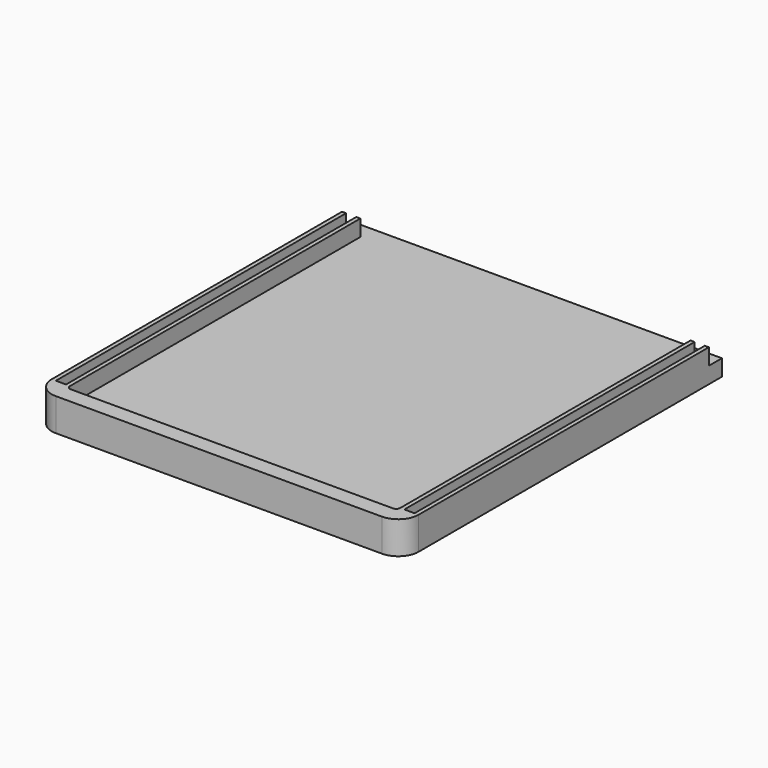
from build123d import *

# Parameters (mm, degrees)
EXTRUDE_DEPTH   = 4
PAD_DEPTH       = 8
POCKET_START    = 4
SKETCH001_W     = 90
SKETCH001_H     = 4
POCKET_DEPTH    = 4
POCKET001_START = -5
SKETCH002_W     = 3.5
SKETCH002_H     = 1
SKETCH002_W_2   = 2.5
SKETCH002_H_2   = 3
SKETCH002_H_3   = 1.25
POCKET001_DEPTH = 89


with BuildPart() as part:
    # Face001 → Extrude (new body)
    with BuildSketch(Plane(origin=(44.07068, 49.485801, 0), x_dir=(0, 1, 0), z_dir=(0, 0, 1))):
        with BuildLine():
            add(Edge.make_bspline(
                [(-12.189347, 20.903638), (-8.616149, 10.816398)],
                knots=[0, 0, 8.089254, 8.089254], degree=1))
            add(Edge.make_bspline(
                [(-8.616149, 10.816398), (-9.34243, 10.514773)],
                knots=[0, 0, 0.594462, 0.594462], degree=1))
            add(Edge.make_bspline(
                [(-9.34243, 10.514773), (-9.595107, 10.410263), (-9.751211, 10.165523), (-9.751211, 9.903586)],
                knots=[0, 0, 0, 0, 1, 1, 1, 1], degree=3))
            add(Edge.make_bspline(
                [(-9.751211, 9.903586), (-9.751211, 9.842732), (-9.743274, 9.781877), (-9.724753, 9.7197)],
                knots=[0, 0, 0, 0, 1, 1, 1, 1], degree=3))
            add(Edge.make_bspline(
                [(-9.724753, 9.7197), (-6.950597, 0.094159)],
                knots=[0, 0, 7.572159, 7.572159], degree=1))
            add(Edge.make_bspline(
                [(-6.950597, 0.094159), (-7.703336, -0.194237)],
                knots=[0, 0, 0.609332, 0.609332], degree=1))
            add(Edge.make_bspline(
                [(-7.703336, -0.194237), (-7.963951, -0.292133), (-8.127992, -0.542164), (-8.127992, -0.809393)],
                knots=[0, 0, 0, 0, 1, 1, 1, 1], degree=3))
            add(Edge.make_bspline(
                [(-8.127992, -0.809393), (-8.127992, -0.874216), (-8.118732, -0.939039), (-8.098888, -1.003862)],
                knots=[0, 0, 0, 0, 1, 1, 1, 1], degree=3))
            add(Edge.make_bspline(
                [(-8.098888, -1.003862), (-2.807222, -18.201779)],
                knots=[0, 0, 13.601471, 13.601471], degree=1))
            add(Edge.make_bspline(
                [(-2.807222, -18.201779), (-2.752982, -18.37905), (-2.627305, -18.524571), (-2.460617, -18.603946)],
                knots=[0, 0, 0, 0, 1, 1, 1, 1], degree=3))
            add(Edge.make_bspline(
                [(-2.460617, -18.603946), (-2.29393, -18.683321), (-2.100784, -18.689935), (-1.930128, -18.621143)],
                knots=[0, 0, 0, 0, 1, 1, 1, 1], degree=3))
            add(Edge.make_bspline(
                [(-1.930128, -18.621143), (14.607653, -12.00656)],
                knots=[0, 0, 13.46384, 13.46384], degree=1))
            add(Edge.make_bspline(
                [(14.607653, -12.00656), (14.782278, -11.936446), (14.918539, -11.796216), (14.983362, -11.620268)],
                knots=[0, 0, 0, 0, 1, 1, 1, 1], degree=3))
            add(Edge.make_bspline(
                [(14.983362, -11.620268), (15.046862, -11.444321), (15.034956, -11.248529), (14.947643, -11.083164)],
                knots=[0, 0, 0, 0, 1, 1, 1, 1], degree=3))
            add(Edge.make_bspline(
                [(14.947643, -11.083164), (6.637081, 4.667482)],
                knots=[0, 0, 13.461663, 13.461663], degree=1))
            add(Edge.make_bspline(
                [(6.637081, 4.667482), (6.480976, 4.963815), (6.127758, 5.096107), (5.815549, 4.975721)],
                knots=[0, 0, 0, 0, 1, 1, 1, 1], degree=3))
            add(Edge.make_bspline(
                [(5.815549, 4.975721), (4.96756, 4.651607)],
                knots=[0, 0, 0.686226, 0.686226], degree=1))
            add(Edge.make_bspline(
                [(4.96756, 4.651607), (-0.018513, 13.744013)],
                knots=[0, 0, 7.83859, 7.83859], degree=1))
            add(Edge.make_bspline(
                [(-0.018513, 13.744013), (-0.181232, 14.041669), (-0.541065, 14.167346), (-0.851951, 14.0377)],
                knots=[0, 0, 0, 0, 1, 1, 1, 1], degree=3))
            add(Edge.make_bspline(
                [(-0.851951, 14.0377), (-1.578232, 13.736075)],
                knots=[0, 0, 0.594462, 0.594462], degree=1))
            add(Edge.make_bspline(
                [(-1.578232, 13.736075), (-6.192565, 23.392044)],
                knots=[0, 0, 8.089595, 8.089595], degree=1))
            add(Edge.make_bspline(
                [(-6.192565, 23.392044), (-6.344701, 23.709544), (-6.717763, 23.852419), (-7.043201, 23.717482)],
                knots=[0, 0, 0, 0, 1, 1, 1, 1], degree=3))
            add(Edge.make_bspline(
                [(-7.043201, 23.717482), (-11.81893, 21.735752)],
                knots=[0, 0, 3.908466, 3.908466], degree=1))
            add(Edge.make_bspline(
                [(-11.81893, 21.735752), (-12.07293, 21.629919), (-12.227711, 21.385179), (-12.227711, 21.124565)],
                knots=[0, 0, 0, 0, 1, 1, 1, 1], degree=3))
            add(Edge.make_bspline(
                [(-12.227711, 21.124565), (-12.227711, 21.050482), (-12.215805, 20.976398), (-12.189347, 20.903638)],
                knots=[0, 0, 0, 0, 1, 1, 1, 1], degree=3))
        make_face()
        with BuildLine():
            add(Edge.make_bspline(
                [(-24.664451, 2.497898), (-24.664451, 2.132773), (-24.368117, 1.83644), (-24.002992, 1.83644)],
                knots=[0, 0, 0, 0, 1, 1, 1, 1], degree=3))
            add(Edge.make_bspline(
                [(-24.002992, 1.83644), (-15.404034, 1.83644)],
                knots=[0, 0, 6.5, 6.5], degree=1))
            add(Edge.make_bspline(
                [(-15.404034, 1.83644), (-15.404034, -1.166581)],
                knots=[0, 0, 2.27, 2.27], degree=1))
            add(Edge.make_bspline(
                [(-15.404034, -1.166581), (-24.43294, -8.905643)],
                knots=[0, 0, 8.989056, 8.989056], degree=1))
            add(Edge.make_bspline(
                [(-24.43294, -8.905643), (-24.586399, -9.036612), (-24.664451, -9.221821), (-24.664451, -9.408352)],
                knots=[0, 0, 0, 0, 1, 1, 1, 1], degree=3))
            add(Edge.make_bspline(
                [(-24.664451, -9.408352), (-24.664451, -9.560487), (-24.611534, -9.713946), (-24.504378, -9.8383)],
                knots=[0, 0, 0, 0, 1, 1, 1, 1], degree=3))
            add(Edge.make_bspline(
                [(-24.504378, -9.8383), (-24.266253, -10.116112), (-23.849534, -10.147862), (-23.571722, -9.909737)],
                knots=[0, 0, 0, 0, 1, 1, 1, 1], degree=3))
            add(Edge.make_bspline(
                [(-23.571722, -9.909737), (-14.497836, -2.13231)],
                knots=[0, 0, 9.033744, 9.033744], degree=1))
            add(Edge.make_bspline(
                [(-14.497836, -2.13231), (-12.857419, -2.13231)],
                knots=[0, 0, 1.24, 1.24], degree=1))
            add(Edge.make_bspline(
                [(-12.857419, -2.13231), (-11.318867, -2.13231), (-10.112367, -0.970789), (-10.112367, 0.513523)],
                knots=[0, 0, 0, 0, 1, 1, 1, 1], degree=3))
            add(Edge.make_bspline(
                [(-10.112367, 0.513523), (-10.112367, 4.482273)],
                knots=[0, 0, 3, 3], degree=1))
            add(Edge.make_bspline(
                [(-10.112367, 4.482273), (-10.112367, 5.990398), (-11.250076, 7.128107), (-12.758201, 7.128107)],
                knots=[0, 0, 0, 0, 1, 1, 1, 1], degree=3))
            add(Edge.make_bspline(
                [(-12.758201, 7.128107), (-14.497836, 7.128107)],
                knots=[0, 0, 1.315, 1.315], degree=1))
            add(Edge.make_bspline(
                [(-14.497836, 7.128107), (-23.571722, 14.905534)],
                knots=[0, 0, 9.033744, 9.033744], degree=1))
            add(Edge.make_bspline(
                [(-23.571722, 14.905534), (-23.848211, 15.143659), (-24.266253, 15.111909), (-24.504378, 14.834096)],
                knots=[0, 0, 0, 0, 1, 1, 1, 1], degree=3))
            add(Edge.make_bspline(
                [(-24.504378, 14.834096), (-24.611534, 14.709742), (-24.664451, 14.556284), (-24.664451, 14.404148)],
                knots=[0, 0, 0, 0, 1, 1, 1, 1], degree=3))
            add(Edge.make_bspline(
                [(-24.664451, 14.404148), (-24.664451, 14.217617), (-24.586399, 14.032409), (-24.43294, 13.902763)],
                knots=[0, 0, 0, 0, 1, 1, 1, 1], degree=3))
            add(Edge.make_bspline(
                [(-24.43294, 13.902763), (-15.404034, 6.162377)],
                knots=[0, 0, 8.989707, 8.989707], degree=1))
            add(Edge.make_bspline(
                [(-15.404034, 6.162377), (-15.404034, 3.159357)],
                knots=[0, 0, 2.27, 2.27], degree=1))
            add(Edge.make_bspline(
                [(-15.404034, 3.159357), (-24.002992, 3.159357)],
                knots=[0, 0, 6.5, 6.5], degree=1))
            add(Edge.make_bspline(
                [(-24.002992, 3.159357), (-24.368117, 3.159357), (-24.664451, 2.863023), (-24.664451, 2.497898)],
                knots=[0, 0, 0, 0, 1, 1, 1, 1], degree=3))
        make_face()
        with BuildLine():
            add(Edge.make_bspline(
                [(17.253487, -13.990935), (17.593476, -13.854675), (17.757518, -13.468383), (17.622581, -13.131039)],
                knots=[0, 0, 0, 0, 1, 1, 1, 1], degree=3))
            add(Edge.make_bspline(
                [(17.622581, -13.131039), (17.48632, -12.792373), (17.101351, -12.627008), (16.762685, -12.761946)],
                knots=[0, 0, 0, 0, 1, 1, 1, 1], degree=3))
            add(Edge.make_bspline(
                [(16.762685, -12.761946), (-3.081065, -20.699446)],
                knots=[0, 0, 16.155494, 16.155494], degree=1))
            add(Edge.make_bspline(
                [(-3.081065, -20.699446), (-3.340357, -20.803956), (-3.497784, -21.052664), (-3.497784, -21.314602)],
                knots=[0, 0, 0, 0, 1, 1, 1, 1], degree=3))
            add(Edge.make_bspline(
                [(-3.497784, -21.314602), (-3.497784, -21.396623), (-3.483232, -21.479966), (-3.450159, -21.560664)],
                knots=[0, 0, 0, 0, 1, 1, 1, 1], degree=3))
            add(Edge.make_bspline(
                [(-3.450159, -21.560664), (-3.313899, -21.899331), (-2.92893, -22.064696), (-2.590263, -21.929758)],
                knots=[0, 0, 0, 0, 1, 1, 1, 1], degree=3))
            add(Edge.make_bspline(
                [(-2.590263, -21.929758), (17.253487, -13.990935)],
                knots=[0, 0, 16.155866, 16.155866], degree=1))
        make_face()
    extrude(amount=EXTRUDE_DEPTH)


with BuildPart() as part_1:
    # Extrude placement: moved
    add(part.part.moved(Location((2.348148, 3.053205, -2))))


with BuildPart() as part_2:
    # BaseFeature placement: moved
    add(part_1.part.moved(Location((-2.348148, -3.053205, 2))))

    # Sketch → Pad (new body)
    with BuildSketch(Plane.XY):
        with BuildLine():
            Line((0, 98), (0, 5))
            ThreePointArc((0, 5), (1.464466, 1.464466), (5, 0))
            Line((5, 0), (85, 0))
            ThreePointArc((85, 0), (88.535534, 1.464466), (90, 5))
            Line((90, 5), (90, 98))
            Line((90, 98), (0, 98))
        make_face()
    extrude(amount=PAD_DEPTH)

    # Sketch001 → Pocket (cut)
    with BuildSketch(Plane.XY.offset(POCKET_START)):
        with BuildLine():
            Line((4.5, 98), (4.5, 5))
            ThreePointArc((4.5, 5), (4.792893, 4.292893), (5.5, 4))
            Line((5.5, 4), (84.5, 4))
            ThreePointArc((84.5, 4), (85.207107, 4.292893), (85.5, 5))
            Line((85.5, 5), (85.5, 98))
            Line((85.5, 98), (4.5, 98))
        make_face()
        with Locations((45, 96)):
            Rectangle(SKETCH001_W, SKETCH001_H)
    extrude(amount=POCKET_DEPTH, mode=Mode.SUBTRACT)

    # Sketch002 → Pocket001 (cut)
    with BuildSketch(Plane.XZ.offset(POCKET001_START)):
        with Locations((87.75, 4.5)):
            Rectangle(SKETCH002_W, SKETCH002_H)
        with Locations((87.75, 6.5)):
            Rectangle(SKETCH002_W_2, SKETCH002_H_2)
        with Locations((2.25, 4.375)):
            Rectangle(SKETCH002_W, SKETCH002_H_3)
        with Locations((2.25, 6.5)):
            Rectangle(SKETCH002_W_2, SKETCH002_H_2)
    extrude(amount=-POCKET001_DEPTH, mode=Mode.SUBTRACT)


solid = part_2.part
